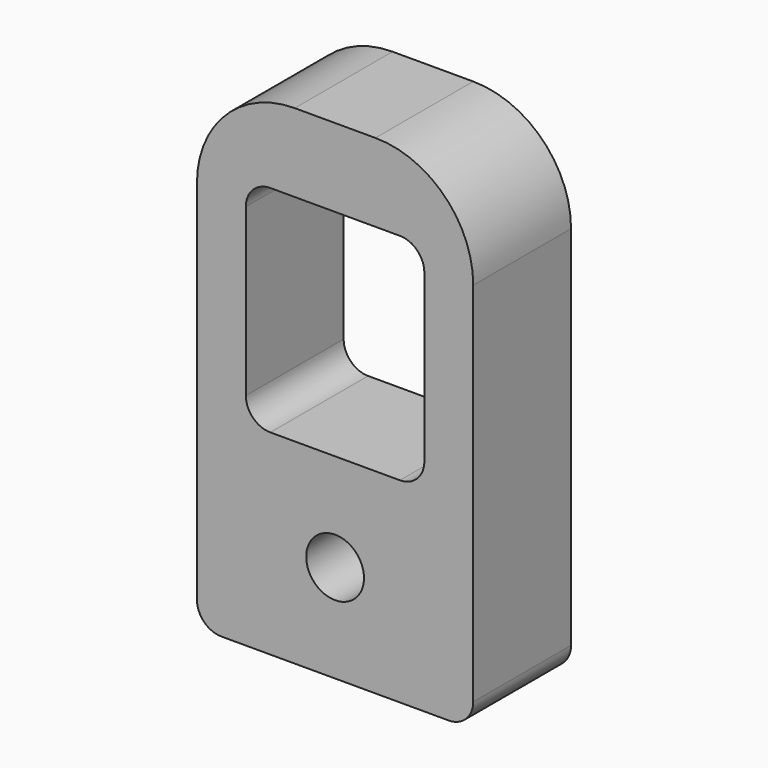
from build123d import *

# Parameters (mm, degrees)
F0_W     = 14.351
F0_H     = 25.4
F0_R     = 1.5
F0_W_2   = 9.271
F0_H_2   = 11.176
F1_DEPTH = 6.35
F2_R     = 5.08
F3_R     = 1.27


with BuildPart() as f1:
    # F0 (on Front) → F1 (new body)
    with BuildSketch(Plane.XZ):
        with Locations((0, 7.62)):
            Rectangle(F0_W, F0_H)
        Circle(F0_R, mode=Mode.SUBTRACT)
        with Locations((0, 10.668)):
            Rectangle(F0_W_2, F0_H_2, mode=Mode.SUBTRACT)
    extrude(amount=F1_DEPTH)

    # F2
    f2_edges = [f1.edges().sort_by_distance(p)[0] for p in [
        (7.1755, -3.175, 20.32),
        (-7.1755, -3.175, 20.32),
    ]]
    fillet(f2_edges, radius=F2_R)

    # F3
    f3_edges = [f1.edges().sort_by_distance(p)[0] for p in [
        (7.1755, -3.175, -5.08),
        (-7.1755, -3.175, -5.08),
        (-4.6355, -3.175, 16.256),
        (4.6355, -3.175, 16.256),
        (-4.6355, -3.175, 5.08),
        (4.6355, -3.175, 5.08),
    ]]
    fillet(f3_edges, radius=F3_R)


solid = f1.part
